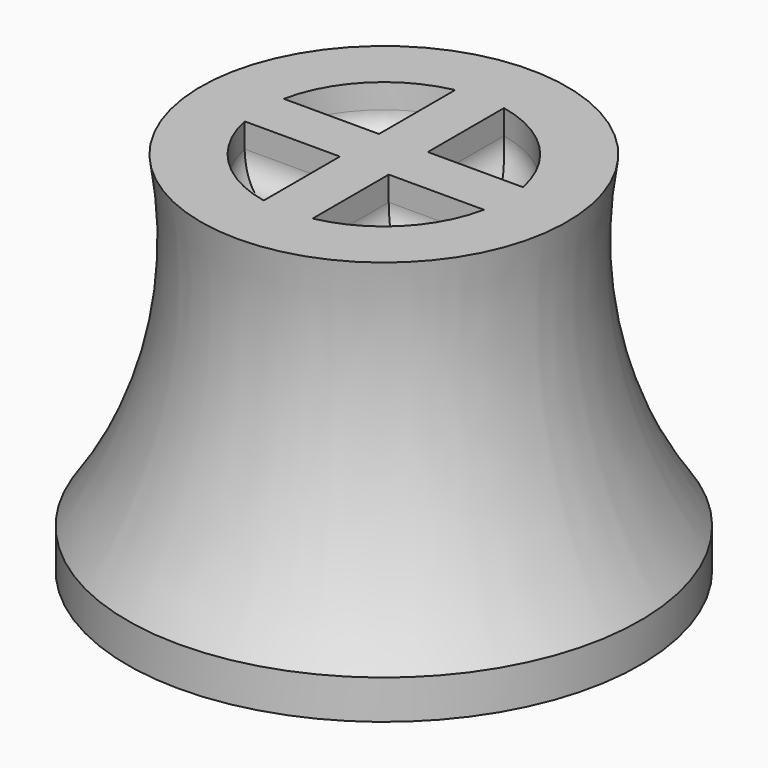
from build123d import *

# Parameters (mm, degrees)
F2_R     = 1.1
F3_DEPTH = 5
F5_DEPTH = 1
F6_R     = 0.5


with BuildPart() as f1:
    # F0 (on Right) → F1 (revolve)
    with BuildSketch(Plane.YZ):
        with BuildLine():
            Line((-5.25, 0), (0, 0))
            Line((0, 0), (0, 7.5))
            Line((0, 7.5), (-3.75, 7.5))
            ThreePointArc((-3.75, 7.5), (-3.835993, 4.001342), (-5.25, 0.8))
            Line((-5.25, 0.8), (-5.25, 0))
        make_face()
    revolve(axis=Axis((0, 0, 7.262046), (0, 0, -1)))

    # F2 (on face) → F3 (cut)
    with BuildSketch(Plane(origin=(0, 0, 0), x_dir=(1, 0, 0), z_dir=(0, 0, -1))):
        Circle(F2_R)
    extrude(amount=-F3_DEPTH, mode=Mode.SUBTRACT)

    # F4 (on face) → F5 (cut)
    with BuildSketch(Plane.XY.offset(7.5)):
        with BuildLine():
            Line((-0.5, 0.5), (-0.5, 2.44949))
            ThreePointArc((-0.5, 2.44949), (-1.767767, 1.767767), (-2.44949, 0.5))
            Line((-2.44949, 0.5), (-0.5, 0.5))
        make_face()
        with BuildLine():
            ThreePointArc((2.44949, 0.5), (1.767767, 1.767767), (0.5, 2.44949))
            Line((0.5, 2.44949), (0.5, 0.5))
            Line((0.5, 0.5), (2.44949, 0.5))
        make_face()
        with BuildLine():
            Line((-0.5, -0.5), (-2.44949, -0.5))
            ThreePointArc((-2.44949, -0.5), (-1.767767, -1.767767), (-0.5, -2.44949))
            Line((-0.5, -2.44949), (-0.5, -0.5))
        make_face()
        with BuildLine():
            Line((0.5, -0.5), (0.5, -2.44949))
            ThreePointArc((0.5, -2.44949), (1.767767, -1.767767), (2.44949, -0.5))
            Line((2.44949, -0.5), (0.5, -0.5))
        make_face()
    extrude(amount=-F5_DEPTH, mode=Mode.SUBTRACT)

    # F6
    f6_edges = [f1.edges().sort_by_distance(p)[0] for p in [
        (-1.474745, 0.5, 6.5),
        (-0.5, 1.474745, 6.5),
        (-1.767767, 1.767767, 6.5),
        (1.767767, 1.767767, 6.5),
        (0.5, 1.474745, 6.5),
        (1.474745, 0.5, 6.5),
        (1.474745, -0.5, 6.5),
        (0.5, -1.474745, 6.5),
        (1.767767, -1.767767, 6.5),
        (-0.5, -1.474745, 6.5),
        (-1.474745, -0.5, 6.5),
        (-1.767767, -1.767767, 6.5),
    ]]
    fillet(f6_edges, radius=F6_R)


solid = f1.part
